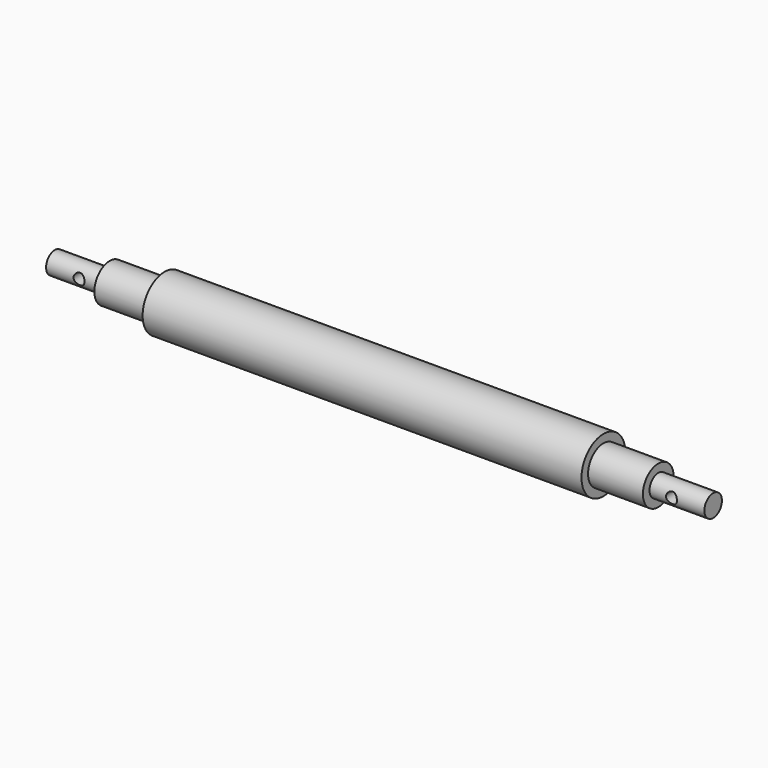
from build123d import *

# Parameters (mm, degrees)
F0_R      = 25
F1_DEPTH  = 200
F2_R      = 10
F3_DEPTH  = 100
F4_R      = 10
F5_DEPTH  = 100
F6_R      = 5
F7_DEPTH  = 50
F8_R      = 17.5
F9_DEPTH  = 50
F10_R     = 17.5
F11_DEPTH = 50


with BuildPart() as f1:
    # F0 (on Right) → F1 (new body, symmetric)
    with BuildSketch(Plane.YZ):
        Circle(F0_R)
    extrude(amount=F1_DEPTH, both=True)

    # F2 (on face) → F3 (join)
    with BuildSketch(Plane(origin=(-200, 0, 0), x_dir=(0, -1, 0), z_dir=(-1, 0, 0))):
        Circle(F2_R)
    extrude(amount=F3_DEPTH)

    # F4 (on face) → F5 (join)
    with BuildSketch(Plane.YZ.offset(200)):
        Circle(F4_R)
    extrude(amount=F5_DEPTH)

    # F6 (on Front) → F7 (cut, symmetric)
    with BuildSketch(Plane.XZ):
        with Locations((270, 0)):
            Circle(F6_R)
        with Locations((-270, 0)):
            Circle(F6_R)
    extrude(amount=F7_DEPTH, both=True, mode=Mode.SUBTRACT)

    # F8 (on face) → F9 (join)
    with BuildSketch(Plane(origin=(-200, 0, 0), x_dir=(0, -1, 0), z_dir=(-1, 0, 0))):
        Circle(F8_R)
    extrude(amount=F9_DEPTH)

    # F10 (on face) → F11 (join)
    with BuildSketch(Plane.YZ.offset(200)):
        Circle(F10_R)
    extrude(amount=F11_DEPTH)


solid = f1.part
